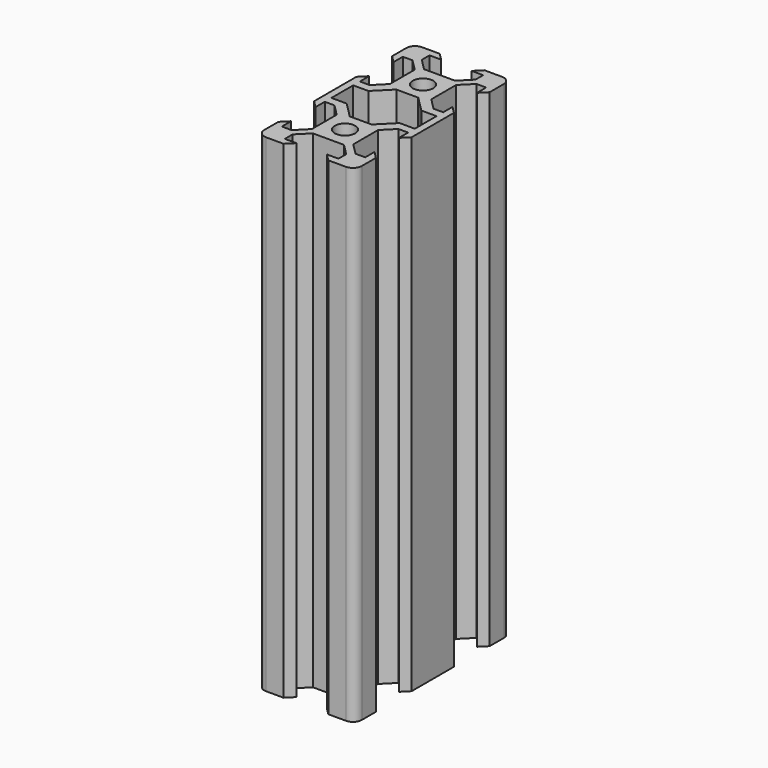
from build123d import *

# Parameters (mm, degrees)
SKETCH001_R = 2.1
PAD_DEPTH   = 100


with BuildPart() as part:
    # Sketch001 → Pad (new body)
    with BuildSketch(Plane.XY):
        with BuildLine():
            Line((10, 0), (10, -5.42))
            Line((10, -5.42), (8.545, -6.875))
            Line((8.545, -6.875), (8.545, -4.5))
            Line((8.545, -4.5), (6.56066, -4.5))
            Line((6.56066, -4.5), (4.245, -6.81566))
            Line((4.245, -6.81566), (4.245, -13.18434))
            Line((4.245, -13.18434), (6.56066, -15.5))
            Line((6.56066, -15.5), (8.545, -15.5))
            Line((8.545, -15.5), (8.545, -13.125))
            Line((8.545, -13.125), (10, -14.58))
            Line((10, -14.58), (10, -18.2))
            ThreePointArc((8.2, -20), (9.472792, -19.472792), (10, -18.2))
            Line((8.2, -20), (4.58, -20))
            Line((4.58, -20), (3.125, -18.545))
            Line((3.125, -18.545), (5.5, -18.545))
            Line((5.5, -18.545), (5.5, -16.56066))
            Line((5.5, -16.56066), (3.18434, -14.245))
            Line((3.18434, -14.245), (-3.18434, -14.245))
            Line((-3.18434, -14.245), (-5.5, -16.56066))
            Line((-5.5, -16.56066), (-5.5, -18.545))
            Line((-5.5, -18.545), (-3.125, -18.545))
            Line((-3.125, -18.545), (-4.58, -20))
            Line((-4.58, -20), (-8.2, -20))
            ThreePointArc((-10, -18.2), (-9.472792, -19.472792), (-8.2, -20))
            Line((-10, -18.2), (-10, -14.58))
            Line((-10, -14.58), (-8.545, -13.125))
            Line((-8.545, -13.125), (-8.545, -15.5))
            Line((-8.545, -15.5), (-6.56066, -15.5))
            Line((-6.56066, -15.5), (-4.245, -13.18434))
            Line((-4.245, -13.18434), (-4.245, -6.81566))
            Line((-4.245, -6.81566), (-6.56066, -4.5))
            Line((-6.56066, -4.5), (-8.545, -4.5))
            Line((-8.545, -4.5), (-8.545, -6.875))
            Line((-8.545, -6.875), (-10, -5.42))
            Line((-10, -5.42), (-10, 0))
            Line((-10, 5.42), (-10, 0))
            Line((-8.545, 6.875), (-10, 5.42))
            Line((-8.545, 4.5), (-8.545, 6.875))
            Line((-6.56066, 4.5), (-8.545, 4.5))
            Line((-4.245, 6.81566), (-6.56066, 4.5))
            Line((-4.245, 13.18434), (-4.245, 6.81566))
            Line((-6.56066, 15.5), (-4.245, 13.18434))
            Line((-8.545, 15.5), (-6.56066, 15.5))
            Line((-8.545, 13.125), (-8.545, 15.5))
            Line((-10, 14.58), (-8.545, 13.125))
            Line((-10, 18.2), (-10, 14.58))
            ThreePointArc((-8.2, 20), (-9.472792, 19.472792), (-10, 18.2))
            Line((-4.58, 20), (-8.2, 20))
            Line((-3.125, 18.545), (-4.58, 20))
            Line((-5.5, 18.545), (-3.125, 18.545))
            Line((-5.5, 16.56066), (-5.5, 18.545))
            Line((-3.18434, 14.245), (-5.5, 16.56066))
            Line((3.18434, 14.245), (-3.18434, 14.245))
            Line((5.5, 16.56066), (3.18434, 14.245))
            Line((5.5, 18.545), (5.5, 16.56066))
            Line((3.125, 18.545), (5.5, 18.545))
            Line((4.58, 20), (3.125, 18.545))
            Line((8.2, 20), (4.58, 20))
            ThreePointArc((10, 18.2), (9.472792, 19.472792), (8.2, 20))
            Line((10, 14.58), (10, 18.2))
            Line((8.545, 13.125), (10, 14.58))
            Line((8.545, 15.5), (8.545, 13.125))
            Line((6.56066, 15.5), (8.545, 15.5))
            Line((4.245, 13.18434), (6.56066, 15.5))
            Line((4.245, 6.81566), (4.245, 13.18434))
            Line((6.56066, 4.5), (4.245, 6.81566))
            Line((8.545, 4.5), (6.56066, 4.5))
            Line((8.545, 6.875), (8.545, 4.5))
            Line((10, 5.42), (8.545, 6.875))
            Line((10, 0), (10, 5.42))
        make_face()
        with Locations((0, -10)):
            Circle(SKETCH001_R, mode=Mode.SUBTRACT)
        with Locations((0, 10)):
            Circle(SKETCH001_R, mode=Mode.SUBTRACT)
        Polygon((-8.545, 0), (-8.545, -2.788399), (-5.427946, -2.788399), (-2.248662, -5.967683), (2.248662, -5.967683), (5.427946, -2.788399), (8.545, -2.788399), (8.545, 0), (8.545, 2.788399), (5.427946, 2.788399), (2.248662, 5.967683), (-2.248662, 5.967683), (-5.427946, 2.788399), (-8.545, 2.788399), align=None, mode=Mode.SUBTRACT)
    extrude(amount=PAD_DEPTH)


solid = part.part
